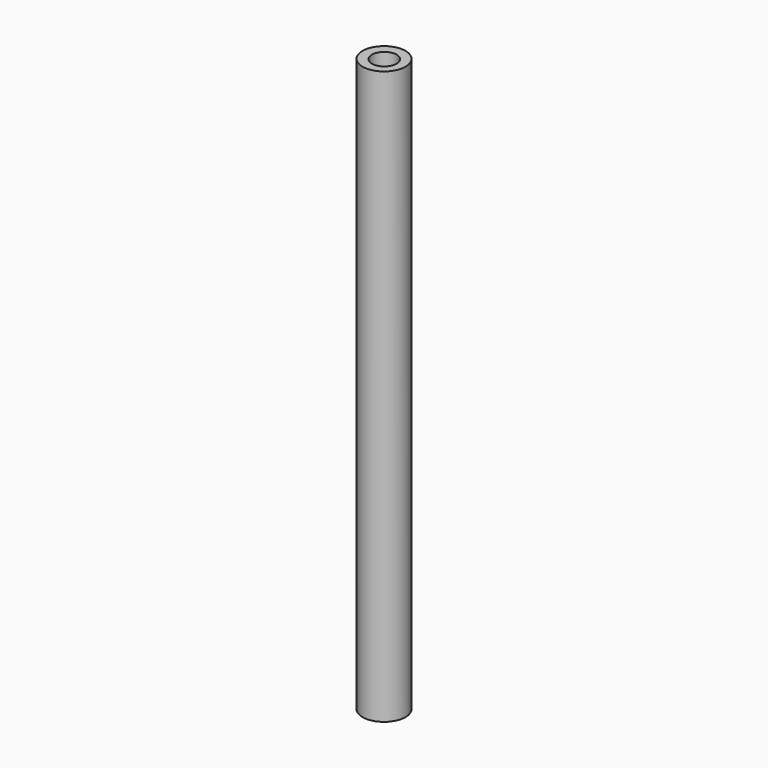
from build123d import *

# Parameters (mm, degrees)
F0_R     = 0.75
F1_DEPTH = 20
F2_R     = 0.4313
F3_DEPTH = 3
F4_R     = 0.3556
F5_DEPTH = 7
F6_R     = 0.254
F7_DEPTH = 7
F8_R     = 0.1461
F9_DEPTH = 3


with BuildPart() as f1:
    # F0 (on Top) → F1 (new body)
    with BuildSketch(Plane.XY):
        with Locations((-0.020624, 0.015056)):
            Circle(F0_R)
    extrude(amount=F1_DEPTH)

    # F2 (on face) → F3 (cut)
    with BuildSketch(Plane.XY.offset(20)):
        Circle(F2_R)
    extrude(amount=-F3_DEPTH, mode=Mode.SUBTRACT)

    # F4 (on face) → F5 (cut)
    with BuildSketch(Plane.XY.offset(17)):
        Circle(F4_R)
    extrude(amount=-F5_DEPTH, mode=Mode.SUBTRACT)

    # F6 (on face) → F7 (cut)
    with BuildSketch(Plane(origin=(0, 0, 0), x_dir=(1, 0, 0), z_dir=(0, 0, -1))):
        Circle(F6_R)
    extrude(amount=-F7_DEPTH, mode=Mode.SUBTRACT)

    # F8 (on face) → F9 (cut)
    with BuildSketch(Plane(origin=(0, 0, 7), x_dir=(1, 0, 0), z_dir=(0, 0, -1))):
        Circle(F8_R)
    extrude(amount=-F9_DEPTH, mode=Mode.SUBTRACT)


solid = f1.part
